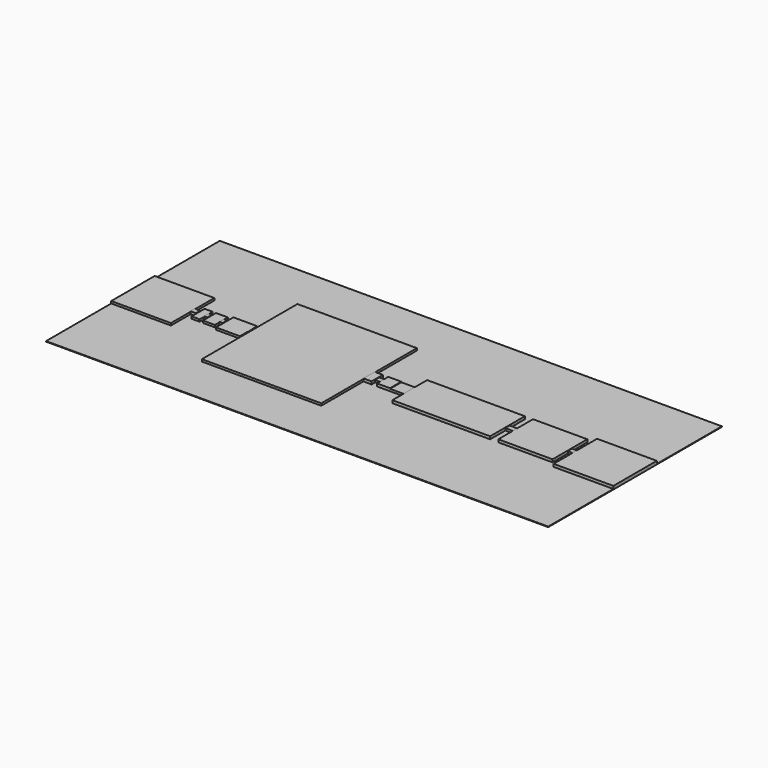
from build123d import *

# Parameters (mm, degrees)
F0_W     = 50
F0_H     = 50
F0_W_2   = 30
F0_W_3   = 10
F0_W_4   = 130
F0_H_2   = 130
F0_W_5   = 75
F1_DEPTH = 25
F2_DEPTH = 5
F3_DEPTH = 30


with BuildPart() as f1:
    # F0 (on Top) → F1 (new body)
    with BuildSketch(Plane.XY):
        Polygon((550, 250), (0, 250), (0, -250), (550, -250), (550, -25), (550, 25), align=None)
        with Locations((575, 0)):
            Rectangle(F0_W, F0_H)
        Polygon((600, 75), (600, 25), (600, -25), (600, -75), (675, -75), (675, -25), (675, 25), (675, 75), align=None)
        with Locations((690, 0)):
            Rectangle(F0_W_2, F0_H)
        Polygon((705, 75), (705, 25), (705, -25), (705, -75), (815, -75), (815, -25), (815, 25), (815, 75), align=None)
        with Locations((830, 0)):
            Rectangle(F0_W_2, F0_H)
        Polygon((845, 100), (845, 25), (845, -25), (845, -100), (1065, -100), (1065, -25), (1065, 25), (1065, 100), align=None)
        with Locations((1070, 0)):
            Rectangle(F0_W_3, F0_H)
        Polygon((1075, 550), (1075, 25), (1075, -25), (1075, -550), (2175, -550), (2175, -65), (2175, 65), (2175, 550), align=None)
        Polygon((2250, -25), (2250, 25), (2250, 65), (2175, 65), (2175, -65), (2250, -65), align=None)
        with Locations((2275, 0)):
            Rectangle(F0_W, F0_H)
        Polygon((2420, -65), (2420, 65), (2300, 65), (2300, 25), (2300, -25), (2300, -65), align=None)
        with Locations((2485, 0)):
            Rectangle(F0_W_4, F0_H_2)
        Polygon((3450, -25), (3450, 25), (3450, 200), (2550, 200), (2550, 65), (2550, -65), (2550, -200), (3450, -200), align=None)
        with Locations((3487.5, 0)):
            Rectangle(F0_W_5, F0_H)
        Polygon((4025, -25), (4025, 25), (4025, 200), (3525, 200), (3525, 25), (3525, -25), (3525, -200), (4025, -200), align=None)
        with Locations((4050, 0)):
            Rectangle(F0_W, F0_H)
        Polygon((4625, -250), (4625, 250), (4075, 250), (4075, 25), (4075, -25), (4075, -250), align=None)
    extrude(amount=F1_DEPTH)

    # F0 (on Top) → F2 (join)
    with BuildSketch(Plane.XY):
        Polygon((4625, 1000), (0, 1000), (0, 250), (550, 250), (550, 25), (600, 25), (600, 75), (675, 75), (675, 25), (705, 25), (705, 75), (815, 75), (815, 25), (845, 25), (845, 100), (1065, 100), (1065, 25), (1075, 25), (1075, 550), (2175, 550), (2175, 65), (2250, 65), (2250, 25), (2300, 25), (2300, 65), (2420, 65), (2550, 65), (2550, 200), (3450, 200), (3450, 25), (3525, 25), (3525, 200), (4025, 200), (4025, 25), (4075, 25), (4075, 250), (4625, 250), align=None)
        Polygon((550, 250), (0, 250), (0, -250), (550, -250), (550, -25), (550, 25), align=None)
        Polygon((4625, -250), (4625, 250), (4075, 250), (4075, 25), (4075, -25), (4075, -250), align=None)
        Polygon((550, -250), (0, -250), (0, -1000), (4625, -1000), (4625, -250), (4075, -250), (4075, -25), (4025, -25), (4025, -200), (3525, -200), (3525, -25), (3450, -25), (3450, -200), (2550, -200), (2550, -65), (2420, -65), (2300, -65), (2300, -25), (2250, -25), (2250, -65), (2175, -65), (2175, -550), (1075, -550), (1075, -25), (1065, -25), (1065, -100), (845, -100), (845, -25), (815, -25), (815, -75), (705, -75), (705, -25), (675, -25), (675, -75), (600, -75), (600, -25), (550, -25), align=None)
    extrude(amount=F2_DEPTH)

    # F0 (on Top) → F3 (join)
    with BuildSketch(Plane.XY):
        with Locations((575, 0)):
            Rectangle(F0_W, F0_H)
        with Locations((690, 0)):
            Rectangle(F0_W_2, F0_H)
        with Locations((830, 0)):
            Rectangle(F0_W_2, F0_H)
        with Locations((1070, 0)):
            Rectangle(F0_W_3, F0_H)
        Polygon((2250, -25), (2250, 25), (2250, 65), (2175, 65), (2175, -65), (2250, -65), align=None)
        Polygon((2420, -65), (2420, 65), (2300, 65), (2300, 25), (2300, -25), (2300, -65), align=None)
        Polygon((3450, -25), (3450, 25), (3450, 200), (2550, 200), (2550, 65), (2550, -65), (2550, -200), (3450, -200), align=None)
        Polygon((4025, -25), (4025, 25), (4025, 200), (3525, 200), (3525, 25), (3525, -25), (3525, -200), (4025, -200), align=None)
        Polygon((4625, -250), (4625, 250), (4075, 250), (4075, 25), (4075, -25), (4075, -250), align=None)
    extrude(amount=F3_DEPTH)


solid = f1.part
